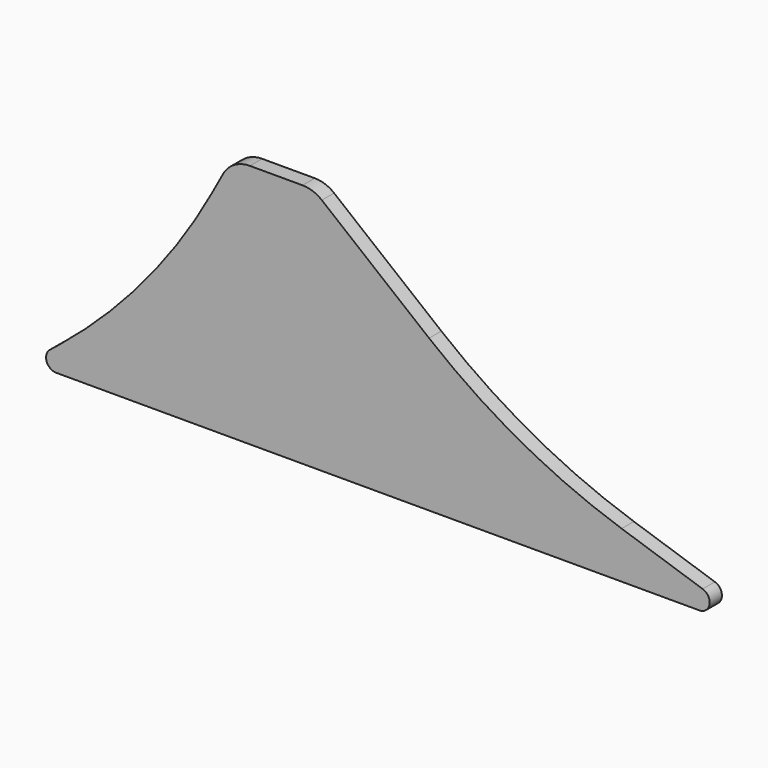
from build123d import *

# Parameters (mm, degrees)
F1_DEPTH = 19.05
F2_R     = 762
F3_R     = 38.1
F4_R     = 12.7


with BuildPart() as f1:
    # F0 (on Front) → F1 (new body)
    with BuildSketch(Plane.XZ):
        Polygon((157.48, 127), (0, 0), (914.4, 0), (607.290909, 101.6), (355.6, 304.8), (254, 304.8), align=None)
    extrude(amount=F1_DEPTH)

    # F2
    f2_edges = [f1.edges().sort_by_distance(p)[0] for p in [
        (157.48, -9.525, 127),
        (607.290909, -9.525, 101.6),
    ]]
    fillet(f2_edges, radius=F2_R)

    # F3
    f3_edges = [f1.edges().sort_by_distance(p)[0] for p in [
        (254, -9.525, 304.8),
        (355.6, -9.525, 304.8),
    ]]
    fillet(f3_edges, radius=F3_R)

    # F4
    f4_edges = [f1.edges().sort_by_distance(p)[0] for p in [
        (914.4, -9.525, 0),
        (0, -9.525, 0),
    ]]
    fillet(f4_edges, radius=F4_R)


solid = f1.part
